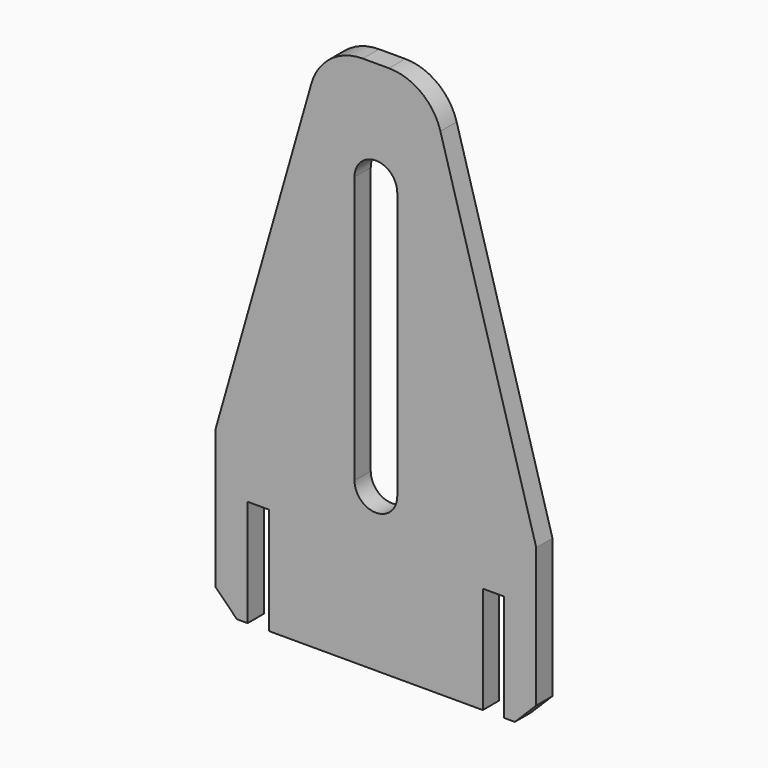
from build123d import *

# Parameters (mm, degrees)
F1_DEPTH = 9.5
F2_SIZE2 = 350
F2_SIZE  = 100
F3_R     = 50
F4_SIZE  = 20


with BuildPart() as f1:
    # F0 (on Front) → F1 (new body, symmetric)
    with BuildSketch(Plane.XZ):
        Polygon((0, 250), (-150, 250), (-150, -250), (-120, -250), (-120, -150), (-100, -150), (-100, -250), (0, -250), (100, -250), (100, -150), (120, -150), (120, -250), (150, -250), (150, 250), align=None)
        with BuildLine():
            ThreePointArc((-20, 150), (0, 170), (20, 150))
            Line((20, 150), (20, -100))
            ThreePointArc((20, -100), (0, -120), (-20, -100))
            Line((-20, -100), (-20, 150))
        make_face(mode=Mode.SUBTRACT)
    extrude(amount=F1_DEPTH, both=True)

    # F2
    f2_edges = [f1.edges().sort_by_distance(p)[0] for p in [
        (150, 0, 250),
        (-150, 0, 250),
    ]]
    f2_side = f1.faces().sort_by_distance((0, 0, 250))[0]
    chamfer(f2_edges, length=F2_SIZE, length2=F2_SIZE2, reference=f2_side)

    # F3
    f3_edges = [f1.edges().sort_by_distance(p)[0] for p in [
        (-50, 0, 250),
        (50, 0, 250),
    ]]
    fillet(f3_edges, radius=F3_R)

    # F4
    f4_edges = [f1.edges().sort_by_distance(p)[0] for p in [
        (-150, 0, -250),
        (150, 0, -250),
    ]]
    chamfer(f4_edges, length=F4_SIZE)


solid = f1.part
